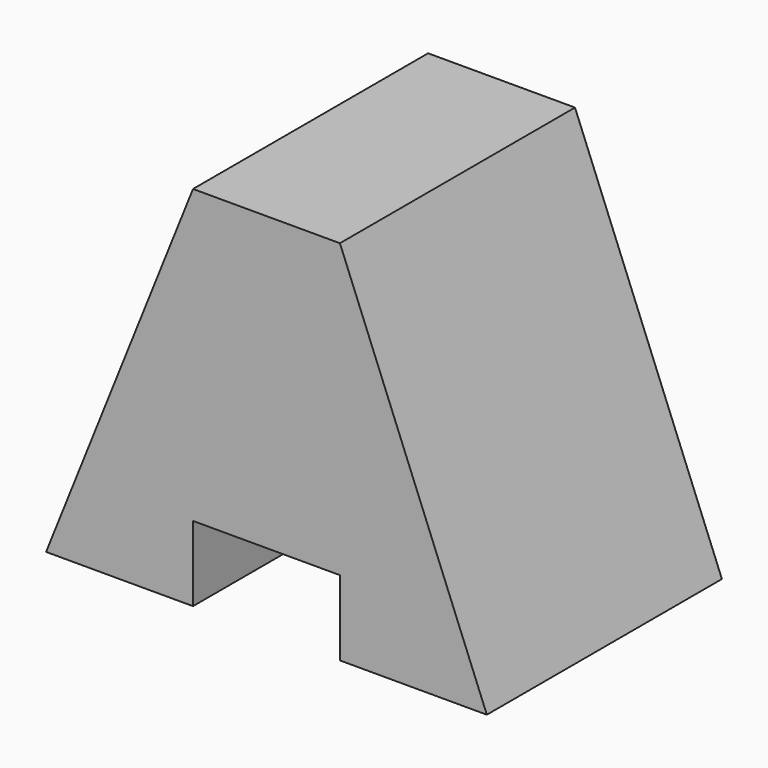
from build123d import *

# Parameters (mm, degrees)
F1_DEPTH = 38.1
F3_DEPTH = 25.401
F4_W     = 12.7
F4_H     = 6.48937
F5_DEPTH = 25.401


with BuildPart() as f1:
    # F0 (on Right) → F1 (new body)
    with BuildSketch(Plane.YZ):
        Polygon((-12.7, 31.75), (-12.7, 0), (0, 0), (12.7, 0), (12.7, 31.75), align=None)
    extrude(amount=F1_DEPTH)

    # F2 (on face) → F3 (cut, through all)
    with BuildSketch(Plane.XZ.offset(12.7)):
        Polygon((0, 31.75), (0, 0), (12.7, 31.75), align=None)
        Polygon((25.4, 31.75), (38.1, 0), (38.1, 31.75), align=None)
    extrude(amount=-F3_DEPTH, mode=Mode.SUBTRACT)

    # F4 (on face) → F5 (cut, through all)
    with BuildSketch(Plane.XZ.offset(12.7)):
        with Locations((19.05, 3.244685)):
            Rectangle(F4_W, F4_H)
    extrude(amount=-F5_DEPTH, mode=Mode.SUBTRACT)


solid = f1.part
